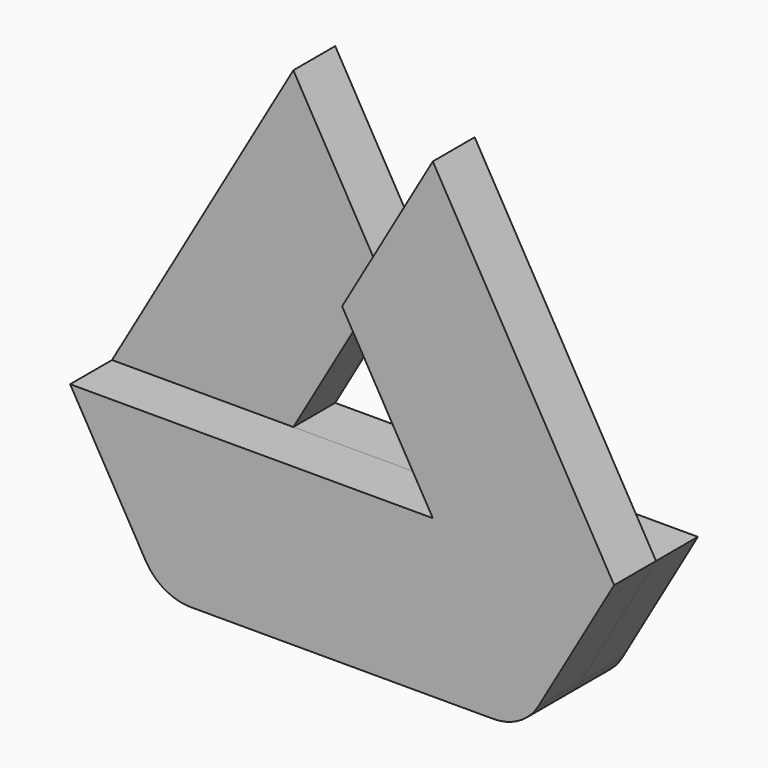
from build123d import *

# Parameters (mm, degrees)
F1_DEPTH = 6.35
F2_DEPTH = 6.35


with BuildPart() as f1:
    # F0 (on Front) → F1 (new body)
    with BuildSketch(Plane.XZ):
        with BuildLine():
            Line((-10.998523, 19.05), (-32.995568, 19.05))
            Line((-32.995568, 19.05), (-23.830132, 3.175))
            ThreePointArc((-23.830132, 3.175), (-21.505871, 0.850739), (-18.330871, 0))
            Line((-18.330871, 0), (18.330871, 0))
            ThreePointArc((18.330871, 0), (21.505871, 0.850739), (23.830132, 3.175))
            Line((23.830132, 3.175), (32.995568, 19.05))
            Line((32.995568, 19.05), (10.998523, 19.05))
            Line((10.998523, 19.05), (-10.998523, 19.05))
        make_face()
        Polygon((10.998523, 57.15), (0, 38.1), (10.998523, 19.05), (32.995568, 19.05), align=None)
    extrude(amount=F1_DEPTH)


with BuildPart() as f2:
    # F0 (on Front) → F2 (new body)
    with BuildSketch(Plane.XZ):
        with BuildLine():
            Line((-10.998523, 19.05), (-32.995568, 19.05))
            Line((-32.995568, 19.05), (-23.830132, 3.175))
            ThreePointArc((-23.830132, 3.175), (-21.505871, 0.850739), (-18.330871, 0))
            Line((-18.330871, 0), (18.330871, 0))
            ThreePointArc((18.330871, 0), (21.505871, 0.850739), (23.830132, 3.175))
            Line((23.830132, 3.175), (32.995568, 19.05))
            Line((32.995568, 19.05), (10.998523, 19.05))
            Line((10.998523, 19.05), (-10.998523, 19.05))
        make_face()
        Polygon((0, 38.1), (-10.998523, 57.15), (-32.995568, 19.05), (-10.998523, 19.05), align=None)
    extrude(amount=-F2_DEPTH)


solid = Compound([f1.part, f2.part])
